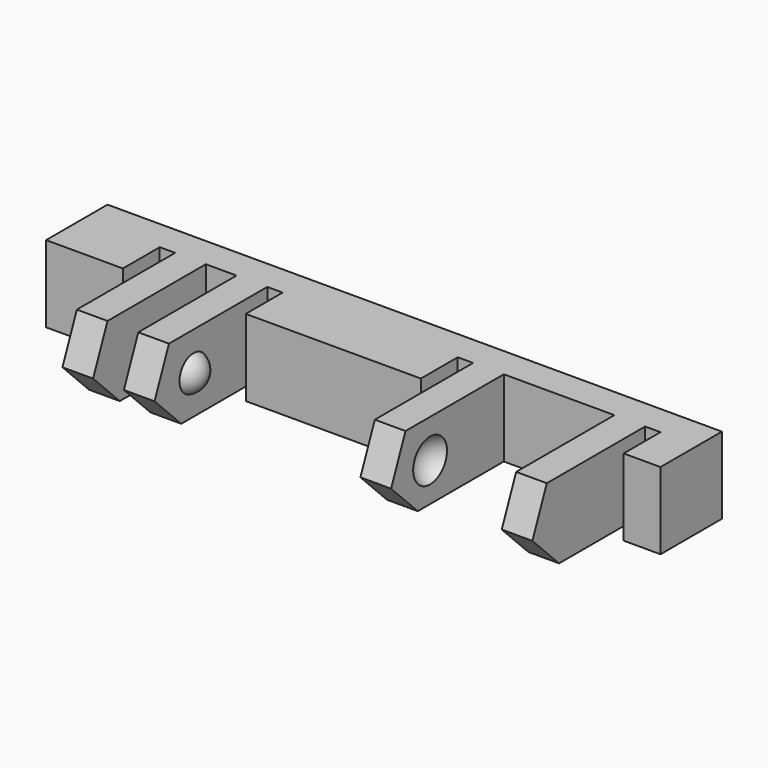
from build123d import *

# Parameters (mm, degrees)
BOX026_W               = 12
BOX026_H               = 44
BOX026_DEPTH           = 10
BOX022_W               = 4
BOX022_H               = 1
BOX022_DEPTH           = 7
BOX024_W               = 4
BOX024_H               = 1
BOX024_DEPTH           = 7
BOX021_W               = 4
BOX021_H               = 2
BOX021_DEPTH           = 7
BOX023_W               = 4
BOX023_H               = 1
BOX023_DEPTH           = 7
BOX020_W               = 4
BOX020_H               = 1
BOX020_DEPTH           = 7
BOX025_W               = 4
BOX025_H               = 7.2
BOX025_DEPTH           = 7
BOX019_W               = 13
BOX019_H               = 40
BOX019_DEPTH           = 10
BOX019_PITCH_ANGLE     = -45
BOX018_W               = 10
BOX018_H               = 2
BOX018_DEPTH           = 7
BOX017_W               = 10
BOX017_H               = 2
BOX017_DEPTH           = 7
BOX016_W               = 10
BOX016_H               = 2
BOX016_DEPTH           = 7
BOX014_W               = 10
BOX014_H               = 2
BOX014_DEPTH           = 7
BOX015_W               = 5
BOX015_H               = 40
BOX015_DEPTH           = 7
CHAMFER002_SIZE        = 4
CUT007_PLACEMENT_ANGLE = 180
CUT008_PLACEMENT_ANGLE = 90


with BuildPart() as cube026:
    # Box026 → Box026 (new body)
    with BuildSketch(Plane(origin=(-11, -2, -12), x_dir=(1, 0, 0), z_dir=(0, 0, 1))):
        with Locations((6, 22)):
            Rectangle(BOX026_W, BOX026_H)
    extrude(amount=BOX026_DEPTH)


with BuildPart() as cube022:
    # Box022 → Box022 (new body)
    with BuildSketch(Plane(origin=(-1, 12, 0), x_dir=(1, 0, 0), z_dir=(0, 0, 1))):
        with Locations((2, 0.5)):
            Rectangle(BOX022_W, BOX022_H)
    extrude(amount=BOX022_DEPTH)


with BuildPart() as cube024:
    # Box024 → Box024 (new body)
    with BuildSketch(Plane(origin=(-1, 36.6, 0), x_dir=(1, 0, 0), z_dir=(0, 0, 1))):
        with Locations((2, 0.5)):
            Rectangle(BOX024_W, BOX024_H)
    extrude(amount=BOX024_DEPTH)


with BuildPart() as cube021:
    # Box021 → Box021 (new body)
    with BuildSketch(Plane(origin=(-1, 8, 0), x_dir=(1, 0, 0), z_dir=(0, 0, 1))):
        with Locations((2, 1)):
            Rectangle(BOX021_W, BOX021_H)
    extrude(amount=BOX021_DEPTH)


with BuildPart() as cube023:
    # Box023 → Box023 (new body)
    with BuildSketch(Plane(origin=(-1, 24.4, 0), x_dir=(1, 0, 0), z_dir=(0, 0, 1))):
        with Locations((2, 0.5)):
            Rectangle(BOX023_W, BOX023_H)
    extrude(amount=BOX023_DEPTH)


with BuildPart() as cube020:
    # Box020 → Box020 (new body)
    with BuildSketch(Plane(origin=(-1, 5, 0), x_dir=(1, 0, 0), z_dir=(0, 0, 1))):
        with Locations((2, 0.5)):
            Rectangle(BOX020_W, BOX020_H)
    extrude(amount=BOX020_DEPTH)


with BuildPart() as fusion008:
    # Box025 → Box025 (new body)
    with BuildSketch(Plane(origin=(-1, 27.4, 0), x_dir=(1, 0, 0), z_dir=(0, 0, 1))):
        with Locations((2, 3.6)):
            Rectangle(BOX025_W, BOX025_H)
    extrude(amount=BOX025_DEPTH)

    # Fusion008: union Cube022, Cube024, Cube021, Cube023, Cube020
    add(cube022.part)
    add(cube024.part)
    add(cube021.part)
    add(cube023.part)
    add(cube020.part)


with BuildPart() as sphere014:
    # Sphere014 → Sphere014 (revolve)
    with BuildSketch(Plane(origin=(-3, 28, 2.5), x_dir=(1, 0, 0), z_dir=(0, -1, 0))):
        with BuildLine():
            ThreePointArc((0, -1.5), (1.5, 0), (0, 1.5))
            Line((0, 1.5), (0, -1.5))
        make_face()
    revolve(axis=Axis((-3, 28, 2.5), (0, 0, 1)))


with BuildPart() as fusion007:
    # Sphere015 → Sphere015 (revolve)
    with BuildSketch(Plane(origin=(-3, 34, 2.5), x_dir=(1, 0, 0), z_dir=(0, -1, 0))):
        with BuildLine():
            ThreePointArc((0, -1.5), (1.5, 0), (0, 1.5))
            Line((0, 1.5), (0, -1.5))
        make_face()
    revolve(axis=Axis((-3, 34, 2.5), (0, 0, 1)))

    # Fusion007: union Sphere014
    add(sphere014.part)


with BuildPart() as sphere013:
    # Sphere013 → Sphere013 (revolve)
    with BuildSketch(Plane(origin=(-3, 11.5, 2.5), x_dir=(1, 0, 0), z_dir=(0, -1, 0))):
        with BuildLine():
            ThreePointArc((0, -1.25), (1.25, 0), (0, 1.25))
            Line((0, 1.25), (0, -1.25))
        make_face()
    revolve(axis=Axis((-3, 11.5, 2.5), (0, 0, 1)))


with BuildPart() as cube019:
    # Box019 → Box019 (new body)
    with BuildSketch(Plane.XY):
        with Locations((6.5, 20)):
            Rectangle(BOX019_W, BOX019_H)
    extrude(amount=BOX019_DEPTH)


with BuildPart() as cube019_1:
    # Box019 pitch: moved
    add(cube019.part.rotate(Axis((0, 0, 0), (0, 1, 0)), BOX019_PITCH_ANGLE))


with BuildPart() as cube019_2:
    # Box019 placement: moved
    add(cube019_1.part.moved(Location((-10.19, 0, -1.19))))


with BuildPart() as cube018:
    # Box018 → Box018 (new body)
    with BuildSketch(Plane(origin=(-10, 6, 0), x_dir=(1, 0, 0), z_dir=(0, 0, 1))):
        with Locations((5, 1)):
            Rectangle(BOX018_W, BOX018_H)
    extrude(amount=BOX018_DEPTH)


with BuildPart() as cube017:
    # Box017 → Box017 (new body)
    with BuildSketch(Plane(origin=(-10, 10, 0), x_dir=(1, 0, 0), z_dir=(0, 0, 1))):
        with Locations((5, 1)):
            Rectangle(BOX017_W, BOX017_H)
    extrude(amount=BOX017_DEPTH)


with BuildPart() as cube016:
    # Box016 → Box016 (new body)
    with BuildSketch(Plane(origin=(-10, 25.4, 0), x_dir=(1, 0, 0), z_dir=(0, 0, 1))):
        with Locations((5, 1)):
            Rectangle(BOX016_W, BOX016_H)
    extrude(amount=BOX016_DEPTH)


with BuildPart() as cube014:
    # Box014 → Box014 (new body)
    with BuildSketch(Plane(origin=(-10, 34.6, 0), x_dir=(1, 0, 0), z_dir=(0, 0, 1))):
        with Locations((5, 1)):
            Rectangle(BOX014_W, BOX014_H)
    extrude(amount=BOX014_DEPTH)


with BuildPart() as cut005:
    # Box015 → Box015 (new body)
    with BuildSketch(Plane.XY):
        with Locations((2.5, 20)):
            Rectangle(BOX015_W, BOX015_H)
    extrude(amount=BOX015_DEPTH)

    # Fusion005: union Cube018, Cube017, Cube016, Cube014
    add(cube018.part)
    add(cube017.part)
    add(cube016.part)
    add(cube014.part)

    # Cut005: cut Cube019
    add(cube019_2.part, mode=Mode.SUBTRACT)


with BuildPart() as cut008:
    # Sphere012 → Sphere012 (revolve)
    with BuildSketch(Plane(origin=(-3, 6.5, 2.5), x_dir=(1, 0, 0), z_dir=(0, -1, 0))):
        with BuildLine():
            ThreePointArc((0, -1.25), (1.25, 0), (0, 1.25))
            Line((0, 1.25), (0, -1.25))
        make_face()
    revolve(axis=Axis((-3, 6.5, 2.5), (0, 0, 1)))

    # Fusion006: union Sphere013, Cut005
    add(sphere013.part)
    add(cut005.part)

    # Cut006: cut Fusion007
    add(fusion007.part, mode=Mode.SUBTRACT)

    # Chamfer002
    chamfer002_edges = [cut008.edges().sort_by_distance(p)[0] for p in [
        (-9, 7, 0),
        (-9, 11, 0),
        (-9, 35.6, 0),
        (-9, 26.4, 0),
    ]]
    chamfer(chamfer002_edges, length=CHAMFER002_SIZE)

    # Cut007: cut Fusion008
    add(fusion008.part, mode=Mode.SUBTRACT)


with BuildPart() as cut008_1:
    # Cut007 placement: moved
    add(cut008.part.moved(Location((-5, 40, 3))).rotate(Axis((-5, 40, 3), (1, 0, 0)), CUT007_PLACEMENT_ANGLE))

    # Cut008: cut Cube026
    add(cube026.part, mode=Mode.SUBTRACT)


with BuildPart() as cut008_2:
    # Cut008 placement: moved
    add(cut008_1.part.moved(Location((40, 0, 0))).rotate(Axis((40, 0, 0), (0, 0, 1)), CUT008_PLACEMENT_ANGLE))


solid = cut008_2.part
